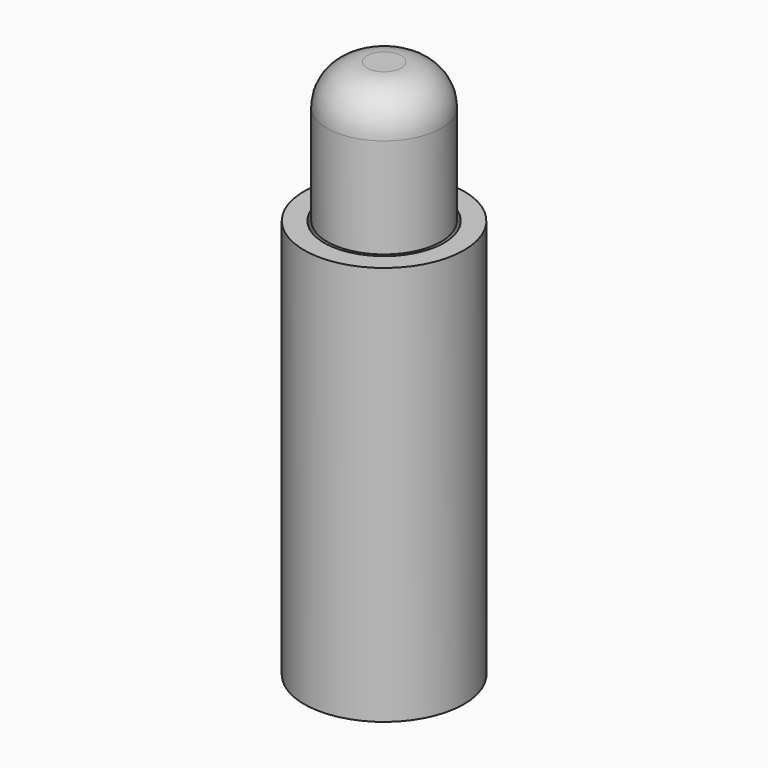
from build123d import *

# Parameters (mm, degrees)
F0_R      = 10.16
F1_DEPTH  = 7.62
F2_R      = 10.16
F2_R_2    = 7.62
F3_DEPTH  = 43.18
F4_R      = 3.175
F5_DEPTH  = 2.54
F6_R      = 7.239
F7_DEPTH  = 17.78
F8_R      = 5.08
F9_W      = 4.445
F9_H      = 4.445
F10_DEPTH = 2.54
F11_R     = 2.54
F12_DEPTH = 25.4


with BuildPart() as f1:
    # F0 (on Top) → F1 (new body)
    with BuildSketch(Plane.XY):
        Circle(F0_R)
    extrude(amount=F1_DEPTH)

    # F2 (on face) → F3 (join)
    with BuildSketch(Plane.XY.offset(7.62)):
        Circle(F2_R)
        Circle(F2_R_2, mode=Mode.SUBTRACT)
    extrude(amount=F3_DEPTH)

    # F4 (on face) → F5 (cut)
    with BuildSketch(Plane.XY.offset(7.62)):
        Circle(F4_R)
    extrude(amount=-F5_DEPTH, mode=Mode.SUBTRACT)

    # F11 (on Right) → F12 (cut)
    with BuildSketch(Plane.YZ):
        with Locations((0, 12.7)):
            Circle(F11_R)
    extrude(amount=-F12_DEPTH, mode=Mode.SUBTRACT)


with BuildPart() as f7:
    # F6 (on face) → F7 (new body)
    with BuildSketch(Plane.XY.offset(50.8)):
        Circle(F6_R)
    extrude(amount=F7_DEPTH)

    # F8
    f8_edges = [f7.edges().sort_by_distance(p)[0] for p in [
        (-7.239, 0, 68.58),
    ]]
    fillet(f8_edges, radius=F8_R)

    # F9 (on face) → F10 (cut)
    with BuildSketch(Plane(origin=(0, 0, 50.8), x_dir=(1, 0, 0), z_dir=(0, 0, -1))):
        Rectangle(F9_W, F9_H)
    extrude(amount=-F10_DEPTH, mode=Mode.SUBTRACT)


solid = Compound([f1.part, f7.part])
